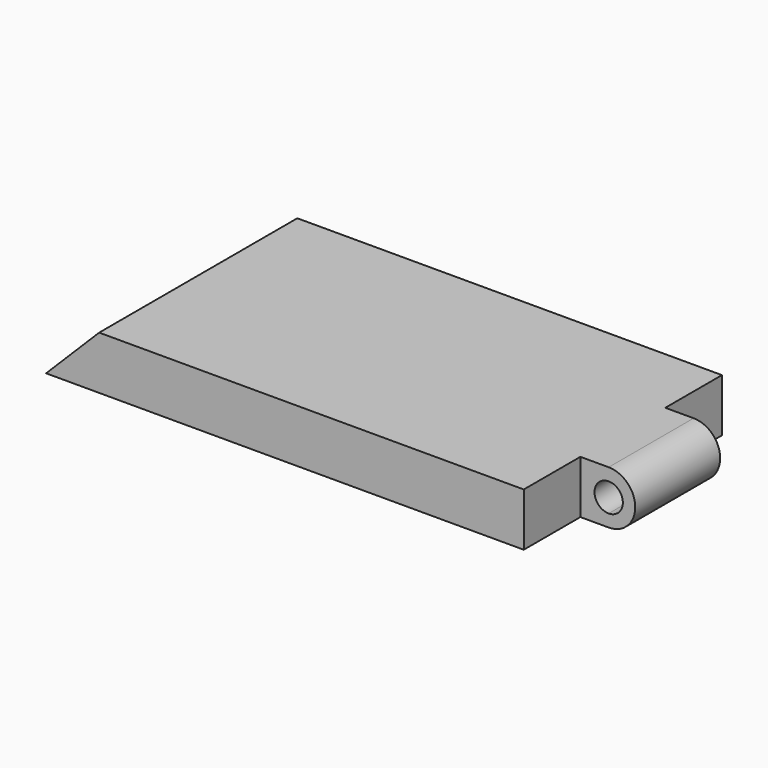
from build123d import *

# Parameters (mm, degrees)
F1_DEPTH = 15
F2_DEPTH = 15
F3_W     = 70
F3_H     = 15
F4_DEPTH = 120
F6_DEPTH = 70


with BuildPart() as f1:
    # F0 (on Front) → F1 (new body)
    with BuildSketch(Plane.XZ):
        with BuildLine():
            Line((4, 7.5), (-4, 7.5))
            Line((-4, 7.5), (-4, -7.5))
            Line((-4, -7.5), (4, -7.5))
            ThreePointArc((4, -7.5), (-3.5, 0), (4, 7.5))
        make_face()
        with BuildLine():
            ThreePointArc((11.5, 0), (9.3033008589, 5.3033008589), (4, 7.5))
            Line((4, 7.5), (4, 4))
            ThreePointArc((4, 4), (6.8284271247, 2.8284271247), (8, 0))
            ThreePointArc((8, 0), (6.8284271247, -2.8284271247), (4, -4))
            Line((4, -4), (4, -7.5))
            ThreePointArc((4, -7.5), (9.3033008589, -5.3033008589), (11.5, 0))
        make_face()
        with BuildLine():
            Line((4, 4), (4, 7.5))
            ThreePointArc((4, 7.5), (-3.5, 0), (4, -7.5))
            Line((4, -7.5), (4, -4))
            ThreePointArc((4, -4), (0, 0), (4, 4))
        make_face()
    extrude(amount=-F1_DEPTH)

    # F2 (add): a face of the model
    f2_faces = [f1.faces().sort_by_distance(p)[0] for p in [
        (0, 0, 7.2843034539),
    ]]
    extrude(f2_faces, amount=F2_DEPTH)

    # F3 (on face) → F4 (join)
    with BuildSketch(Plane(origin=(-4, 0, 0), x_dir=(0, -1, 0), z_dir=(-1, 0, 0))):
        Rectangle(F3_W, F3_H)
    extrude(amount=F4_DEPTH)

    # F5 (on face) → F6 (join)
    with BuildSketch(Plane.XZ.offset(35)):
        Polygon((-139, -7.5), (-124, -7.5), (-124, 7.5), align=None)
    extrude(amount=-F6_DEPTH)


solid = f1.part
